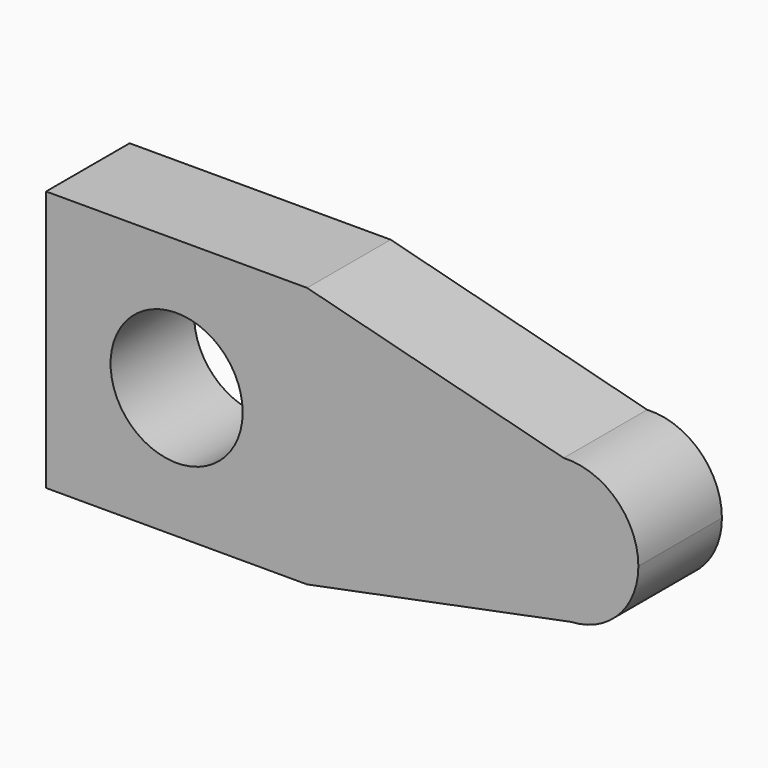
from build123d import *

# Parameters (mm, degrees)
F0_W     = 16
F0_H     = 5
F0_R     = 12.652184
F1_DEPTH = 20


with BuildPart() as f1:
    # F0 (on Front) → F1 (new body)
    with BuildSketch(Plane.XZ):
        with Locations((-17, 22.5)):
            Rectangle(F0_W, F0_H)
        Polygon((25, 25), (-9, 25), (-9, 20), (-25, 20), (-25, -20), (-9, -20), (-9, -25), (25, -25), align=None)
        Circle(F0_R, mode=Mode.SUBTRACT)
        with BuildLine():
            Line((74.125879, 12.299568), (25, 25))
            Line((25, 25), (25, -25))
            Line((25, -25), (75.537778, -14.879759))
            ThreePointArc((75.537778, -14.879759), (61.242165, -1.996045), (74.125879, 12.299568))
        make_face()
        with Locations((-17, -22.5)):
            Rectangle(F0_W, F0_H)
        with BuildLine():
            ThreePointArc((88.439816, -1.290096), (84.201214, 8.57864), (74.125879, 12.299568))
            ThreePointArc((74.125879, 12.299568), (61.242165, -1.996045), (75.537778, -14.879759))
            ThreePointArc((75.537778, -14.879759), (84.700564, -10.659481), (88.439816, -1.290096))
        make_face()
    extrude(amount=F1_DEPTH)


solid = f1.part
